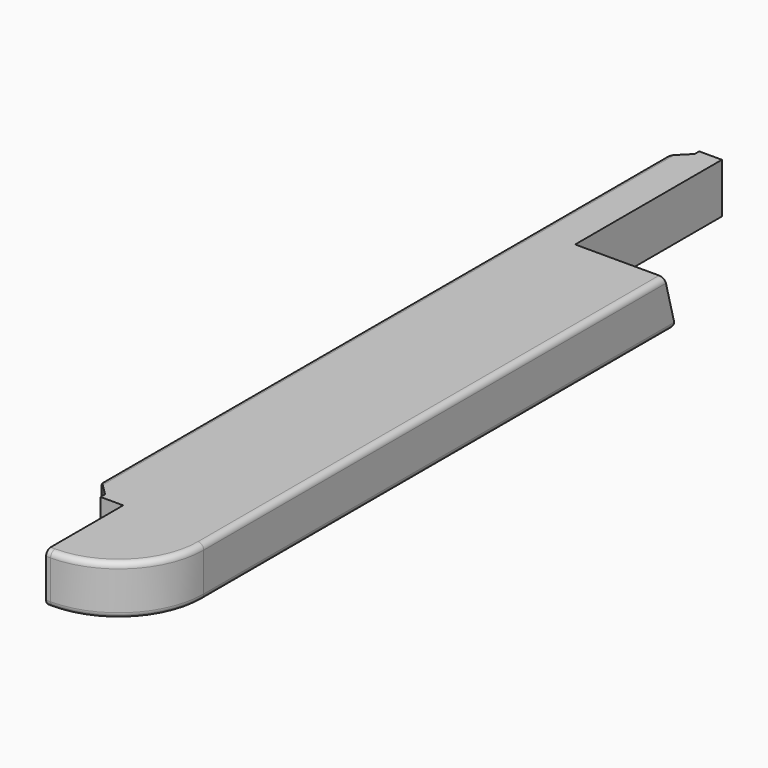
from build123d import *

# Parameters (mm, degrees)
F1_DEPTH = 44
F3_DEPTH = 79
F4_R     = 5


with BuildPart() as f1:
    # F0 (on Top) → F1 (new body)
    with BuildSketch(Plane.XY):
        with BuildLine():
            Line((35, 85), (35, 0))
            Line((35, 0), (39, 0))
            ThreePointArc((39, 0), (92.033008589, 21.966991411), (114, 75))
            Line((114, 75), (114, 595))
            Line((114, 595), (35, 595))
            Line((35, 595), (35, 745))
            Line((35, 745), (15, 745))
            Line((15, 745), (15, 740))
            Line((15, 740), (0, 725))
            Line((0, 725), (0, 105))
            Line((0, 105), (15, 90))
            Line((15, 90), (15, 85))
            Line((15, 85), (35, 85))
        make_face()
    extrude(amount=-F1_DEPTH)

    # F2 (on face) → F3 (cut)
    with BuildSketch(Plane.YZ.offset(114)):
        Polygon((583.210235533, 0), (595, -44), (595, 0), align=None)
    extrude(amount=-F3_DEPTH, mode=Mode.SUBTRACT)

    # F4
    f4_edges = [f1.edges().sort_by_distance(p)[0] for p in [
        (114, 335, -44),
        (114, 329.105118, 0),
        (74.5, 595, -44),
        (0, 415, -44),
        (0, 415, 0),
    ]]
    fillet(f4_edges, radius=F4_R)


solid = f1.part
